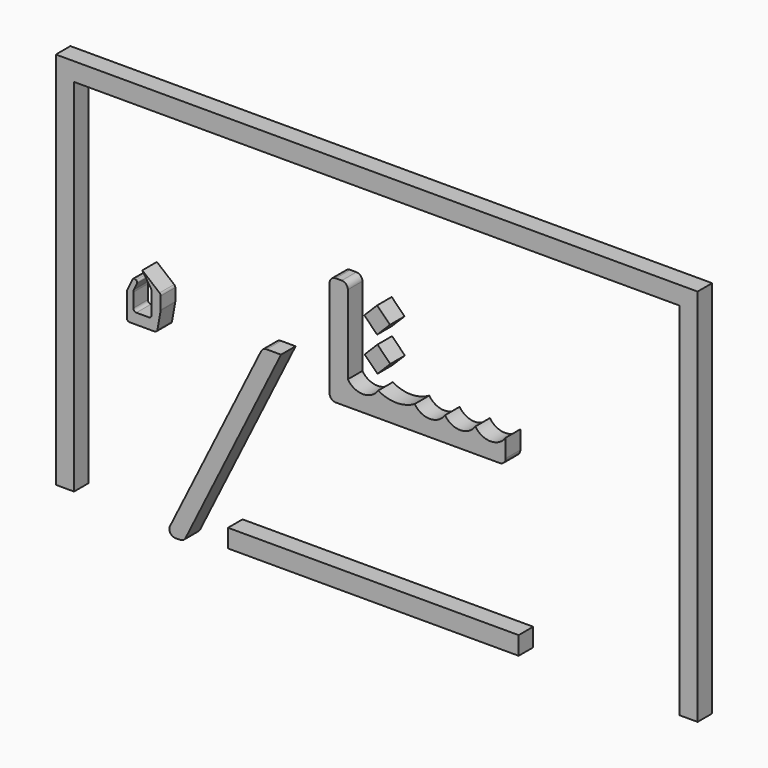
from build123d import *

# Parameters (mm, degrees)
F0_W     = 99.672524
F0_H     = 3
F0_W_2   = 47.863317
F1_DEPTH = 3


with BuildPart() as f1:
    # F0 (on Front) → F1 (new body)
    with BuildSketch(Plane.XZ):
        with BuildLine():
            ThreePointArc((0, 0), (-2.5, -1.341688), (-5, 0))
            ThreePointArc((-5, 0), (-7.5, -1.341688), (-10, 0))
            ThreePointArc((-10, 0), (-12.5, -1.341688), (-15, 0))
            ThreePointArc((-15, 0), (-18, -0.803848), (-21, 0))
            ThreePointArc((-21, 0), (-23.5, -1.341688), (-26, 0))
            Line((-26, 0), (-26, 13))
            ThreePointArc((-26, 13), (-26.292893, 13.707107), (-27, 14))
            Line((-27, 14), (-28, 14))
            ThreePointArc((-28, 14), (-28.707107, 13.707107), (-29, 13))
            Line((-29, 13), (-29, -3))
            ThreePointArc((-29, -3), (-28.707107, -3.707107), (-28, -4))
            Line((-28, -4), (-1, -4))
            ThreePointArc((-1, -4), (-0.292893, -3.707107), (0, -3))
            Line((0, -3), (0, 0))
        make_face()
        with BuildLine():
            Line((-37, 0), (-39.379826, 0))
            ThreePointArc((-39.379826, 0), (-39.906873, -0.150163), (-40.275633, -0.555556))
            Line((-40.275633, -0.555556), (-55.283355, -30.804587))
            ThreePointArc((-55.283355, -30.804587), (-55.237385, -31.776077), (-54.387548, -32.249031))
            Line((-54.387548, -32.249031), (-53.620174, -32.249031))
            ThreePointArc((-53.620174, -32.249031), (-53.093127, -32.098868), (-52.724367, -31.693475))
            Line((-52.724367, -31.693475), (-37, 0))
        make_face()
        Polygon((-18.99884, 4.510566), (-21.12016, 6.631886), (-23.241481, 4.510566), (-21.12016, 2.389246), align=None)
        Polygon((-19.049909, 10.173308), (-21.171229, 12.294628), (-23.292549, 10.173308), (-21.171229, 8.051987), align=None)
        Polygon((-71.079193, 28.454014), (-71.079193, 31.454014), (-74.079193, 31.454014), (-74.079193, -30.928904), (-71.079193, -30.928904), align=None)
        with Locations((-21.242931, 29.954014)):
            Rectangle(F0_W, F0_H)
        Polygon((31.593331, 31.454014), (28.593331, 31.454014), (28.593331, 28.454014), (28.593331, -30.928904), (31.593331, -30.928904), align=None)
        with Locations((-21.803254, -29.428904)):
            Rectangle(F0_W_2, F0_H)
        with BuildLine():
            Line((-56.995024, 2.454279), (-59.84003, 4.797225))
            Line((-59.84003, 4.797225), (-58.373594, 2.54117))
            ThreePointArc((-58.373594, 2.54117), (-58.313436, 2.410784), (-58.292816, 2.268676))
            Line((-58.292816, 2.268676), (-58.292816, -1.160077))
            ThreePointArc((-58.292816, -1.160077), (-58.439263, -1.513631), (-58.792816, -1.660077))
            Line((-58.792816, -1.660077), (-60.819657, -1.660077))
            ThreePointArc((-60.819657, -1.660077), (-61.17321, -1.513631), (-61.319657, -1.160077))
            Line((-61.319657, -1.160077), (-61.319657, 1.139937))
            ThreePointArc((-61.319657, 1.139937), (-61.294883, 1.361145), (-61.221791, 1.571392))
            Line((-61.221791, 1.571392), (-60.708477, 2.644687))
            ThreePointArc((-60.708477, 2.644687), (-60.696282, 2.872824), (-60.848976, 3.042765))
            Line((-60.848976, 3.042765), (-61.029262, 3.128988))
            ThreePointArc((-61.029262, 3.128988), (-61.257399, 3.141184), (-61.42734, 2.98849))
            Line((-61.42734, 2.98849), (-62.366769, 1.024225))
            ThreePointArc((-62.366769, 1.024225), (-62.388588, 0.961466), (-62.395982, 0.895435))
            Line((-62.395982, 0.895435), (-62.395982, -1.660077))
            Line((-62.395982, -1.660077), (-62.395982, -2.909411))
            ThreePointArc((-62.395982, -2.909411), (-62.249536, -3.262964), (-61.895982, -3.409411))
            Line((-61.895982, -3.409411), (-57.837342, -3.409411))
            ThreePointArc((-57.837342, -3.409411), (-57.51618, -3.292627), (-57.345043, -2.996831))
            Line((-57.345043, -2.996831), (-56.820579, -0.043371))
            ThreePointArc((-56.820579, -0.043371), (-56.814806, 0.00017), (-56.812877, 0.04405))
            Line((-56.812877, 0.04405), (-56.812877, 2.068314))
            ThreePointArc((-56.812877, 2.068314), (-56.860701, 2.281707), (-56.995024, 2.454279))
        make_face()
    extrude(amount=F1_DEPTH)


solid = f1.part
